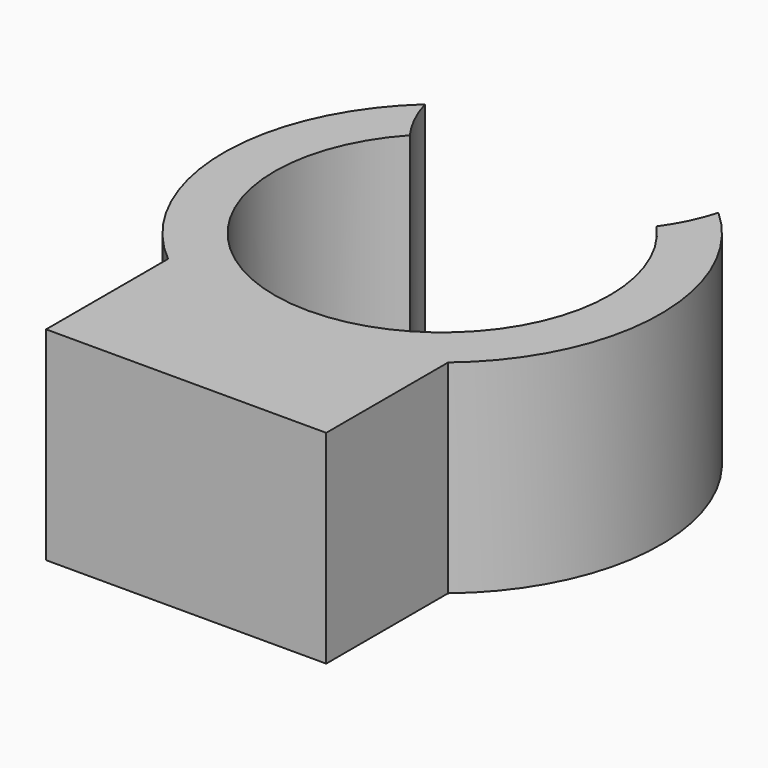
from build123d import *

# Parameters (mm, degrees)
F1_DEPTH = 4


with BuildPart() as f1:
    # F0 (on Top) → F1 (new body)
    with BuildSketch(Plane.XY):
        with BuildLine():
            ThreePointArc((2.426764, 2.23625), (0, -3.3), (-2.426764, 2.23625))
            ThreePointArc((-2.426764, 2.23625), (-2.699268, 2.69082), (-2.887527, 3.18625))
            ThreePointArc((-2.887527, 3.18625), (-4.299127, -0.08664), (-2.75681, -3.3))
            Line((-2.75681, -3.3), (-2.75681, -6.3))
            Line((-2.75681, -6.3), (2.75681, -6.3))
            Line((2.75681, -6.3), (2.75681, -3.3))
            ThreePointArc((2.75681, -3.3), (4.299127, -0.08664), (2.887527, 3.18625))
            ThreePointArc((2.887527, 3.18625), (2.699268, 2.69082), (2.426764, 2.23625))
        make_face()
    extrude(amount=F1_DEPTH)


solid = f1.part
